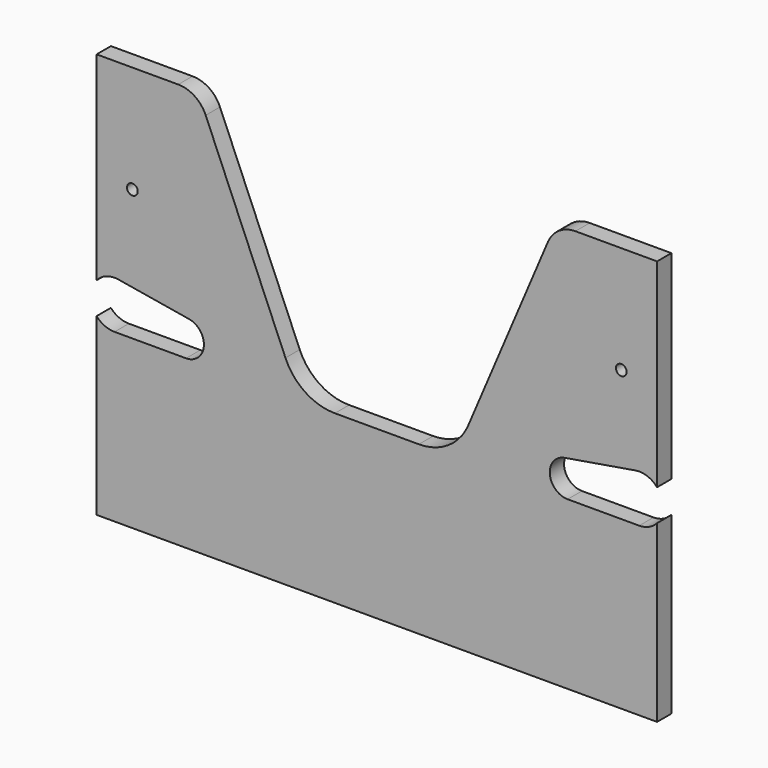
from build123d import *

# Parameters (mm, degrees)
F0_R     = 4.5
F1_DEPTH = 15


with BuildPart() as f1:
    # F0 (on Front) → F1 (new body)
    with BuildSketch(Plane.XZ):
        with BuildLine():
            Line((-166.539142, 170), (-235, 170))
            Line((-235, 170), (-235, 3.228757))
            ThreePointArc((-235, 3.228757), (-226.686517, 8.849151), (-216.689655, 9.724138))
            Line((-216.689655, 9.724138), (-157.517241, -0.206897))
            ThreePointArc((-157.517241, -0.206897), (-145.051814, -16.245682), (-160, -30))
            Line((-160, -30), (-220, -30))
            ThreePointArc((-220, -30), (-228.228757, -28.228757), (-235, -23.228757))
            Line((-235, -23.228757), (-235, -170))
            Line((-235, -170), (0, -170))
            Line((0, -170), (235, -170))
            Line((235, -170), (235, -23.228757))
            ThreePointArc((235, -23.228757), (228.228757, -28.228757), (220, -30))
            Line((220, -30), (160, -30))
            ThreePointArc((160, -30), (145.051814, -16.245682), (157.517241, -0.206897))
            Line((157.517241, -0.206897), (216.689655, 9.724138))
            ThreePointArc((216.689655, 9.724138), (226.686517, 8.849151), (235, 3.228757))
            Line((235, 3.228757), (235, 170))
            Line((235, 170), (166.539142, 170))
            ThreePointArc((166.539142, 170), (152.745356, 165.850215), (143.530869, 154.778516))
            Line((143.530869, 154.778516), (76.644435, -2.601329))
            ThreePointArc((76.644435, -2.601329), (60.05836, -22.530386), (35.229544, -30))
            Line((35.229544, -30), (0, -30))
            Line((0, -30), (-35.229544, -30))
            ThreePointArc((-35.229544, -30), (-60.05836, -22.530386), (-76.644435, -2.601329))
            Line((-76.644435, -2.601329), (-143.530869, 154.778516))
            ThreePointArc((-143.530869, 154.778516), (-152.745356, 165.850215), (-166.539142, 170))
        make_face()
        with Locations((-205, 80)):
            Circle(F0_R, mode=Mode.SUBTRACT)
        with Locations((205, 80)):
            Circle(F0_R, mode=Mode.SUBTRACT)
    extrude(amount=F1_DEPTH)


solid = f1.part
